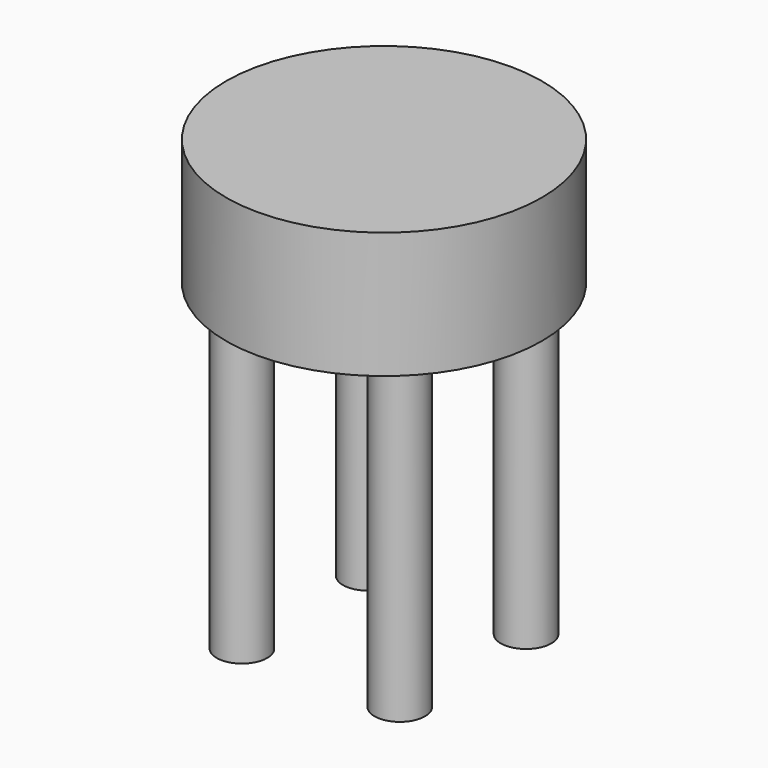
from build123d import *

# Parameters (mm, degrees)
SKETCH_R     = 50
PAD_DEPTH    = 40
SKETCH001_R  = 8
PAD001_DEPTH = 100


with BuildPart() as part:
    # Sketch → Pad (new body)
    with BuildSketch(Plane.XY):
        Circle(SKETCH_R)
    extrude(amount=PAD_DEPTH)

    # Sketch001 (on Face2 of Pad) → Pad001 (join)
    with BuildSketch(Plane(origin=(0, 0, 0), x_dir=(1, 0, 0), z_dir=(0, 0, -1))):
        with Locations((25, 25)):
            Circle(SKETCH001_R)
        with Locations((25, -25)):
            Circle(SKETCH001_R)
        with Locations((-25, -25)):
            Circle(SKETCH001_R)
        with Locations((-25, 25)):
            Circle(SKETCH001_R)
    extrude(amount=PAD001_DEPTH)


solid = part.part
